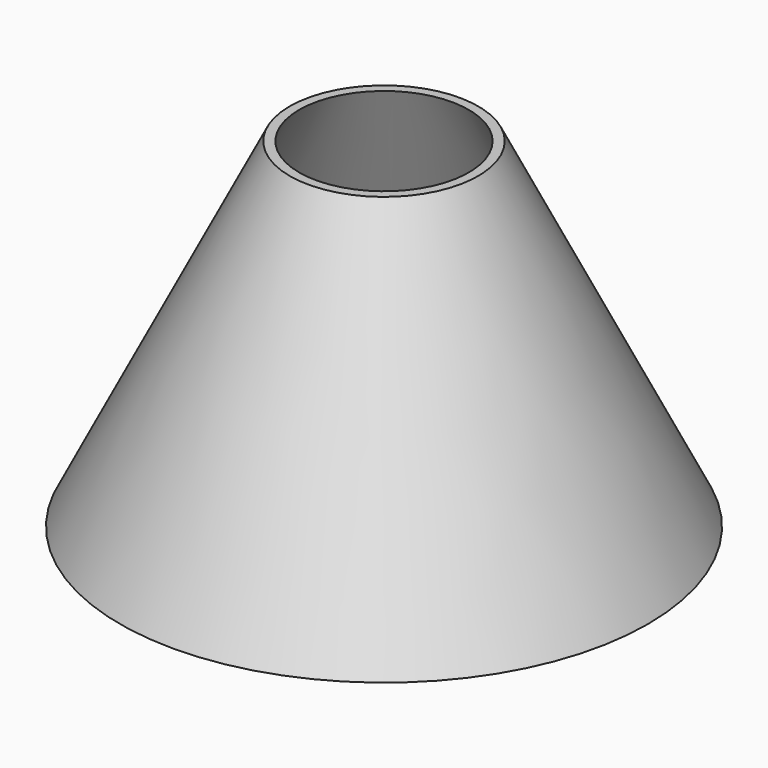
from build123d import *

# Parameters (mm, degrees)
F2_T = 5


with BuildPart() as f1:
    # F0 (on Front) → F1 (revolve)
    with BuildSketch(Plane.XZ):
        Polygon((-150, 0), (0, 0), (0, 200), (-50, 200), align=None)
    revolve(axis=Axis((0, 0, 100), (0, 0, 1)))

    # F2
    f2_openings = [f1.faces().sort_by_distance(p)[0] for p in [
        (0, 0, 200),
        (0, 0, 0),
    ]]
    offset(amount=F2_T, openings=f2_openings)


solid = f1.part
